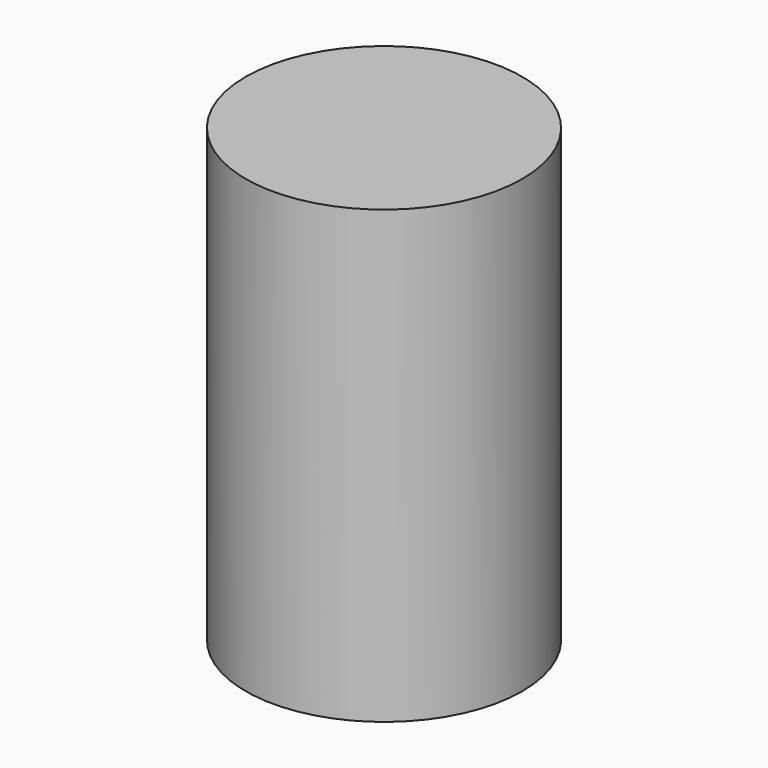
from build123d import *

# Parameters (mm, degrees)
F1_R     = 92
F2_DEPTH = 300


with BuildPart() as f2:
    # F1 (on offset) → F2 (new body)
    with BuildSketch(Plane.XY.offset(-100)):
        Circle(F1_R)
    extrude(amount=-F2_DEPTH)


solid = f2.part
